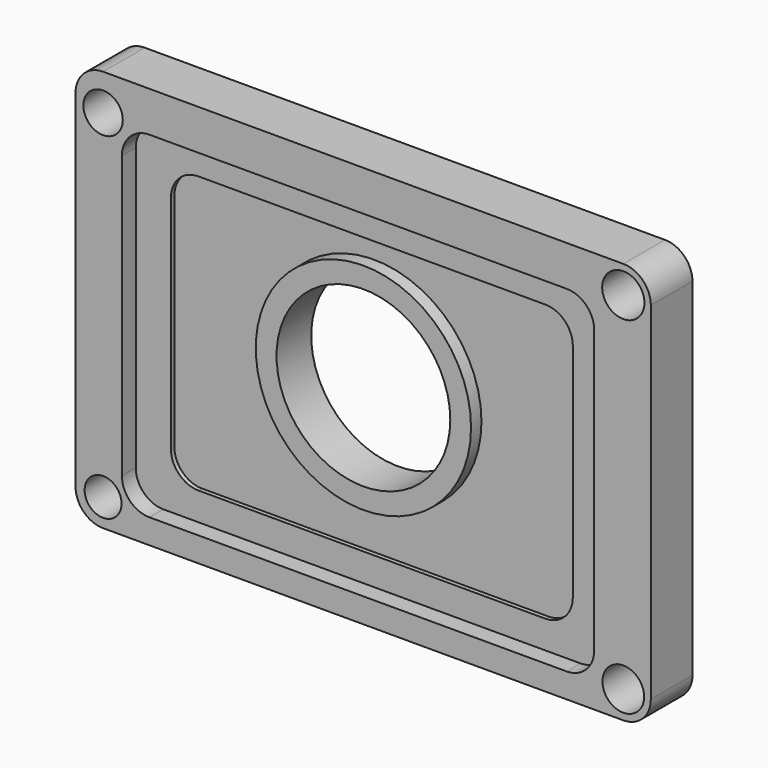
from build123d import *

# Parameters (mm, degrees)
F0_R     = 4.258407
F0_R_2   = 4.806756
F0_R_3   = 4.543111
F0_R_4   = 4.869038
F1_DEPTH = 12
F2_DEPTH = 8
F0_R_5   = 24.829414
F3_DEPTH = 7
F0_R_6   = 20.038363
F4_DEPTH = 10


with BuildPart() as f1:
    # F0 (on Front) → F1 (new body)
    with BuildSketch(Plane.XZ):
        with BuildLine():
            Line((61.549276, 45.996532), (-58.450724, 45.996532))
            ThreePointArc((-58.450724, 45.996532), (-62.940852, 44.13666), (-64.800724, 39.646532))
            Line((-64.800724, 39.646532), (-64.800724, -40.353468))
            ThreePointArc((-64.800724, -40.353468), (-62.940852, -44.843596), (-58.450724, -46.703468))
            Line((-58.450724, -46.703468), (61.549276, -46.703468))
            ThreePointArc((61.549276, -46.703468), (66.039404, -44.843596), (67.899276, -40.353468))
            Line((67.899276, -40.353468), (67.899276, 39.646532))
            ThreePointArc((67.899276, 39.646532), (66.039404, 44.13666), (61.549276, 45.996532))
        make_face()
        with Locations((-58.450724, -40.353468)):
            Circle(F0_R, mode=Mode.SUBTRACT)
        with BuildLine():
            ThreePointArc((-54.108147, 30.331052), (-52.248275, 34.82118), (-47.758147, 36.681052))
            Line((-47.758147, 36.681052), (48.495564, 36.681052))
            ThreePointArc((48.495564, 36.681052), (52.985692, 34.82118), (54.845564, 30.331052))
            Line((54.845564, 30.331052), (54.845564, -34.668948))
            ThreePointArc((54.845564, -34.668948), (52.985692, -39.159076), (48.495564, -41.018948))
            Line((48.495564, -41.018948), (-47.758147, -41.018948))
            ThreePointArc((-47.758147, -41.018948), (-52.248275, -39.159076), (-54.108147, -34.668948))
            Line((-54.108147, -34.668948), (-54.108147, 30.331052))
        make_face(mode=Mode.SUBTRACT)
        with Locations((61.549276, -40.353468)):
            Circle(F0_R_2, mode=Mode.SUBTRACT)
        with Locations((-58.450724, 37.651211)):
            Circle(F0_R_3, mode=Mode.SUBTRACT)
        with Locations((61.549276, 39.646532)):
            Circle(F0_R_4, mode=Mode.SUBTRACT)
    extrude(amount=F1_DEPTH)

    # F0 (on Front) → F2 (join)
    with BuildSketch(Plane.XZ):
        with BuildLine():
            Line((48.495564, 36.681052), (-47.758147, 36.681052))
            ThreePointArc((-47.758147, 36.681052), (-52.248275, 34.82118), (-54.108147, 30.331052))
            Line((-54.108147, 30.331052), (-54.108147, -34.668948))
            ThreePointArc((-54.108147, -34.668948), (-52.248275, -39.159076), (-47.758147, -41.018948))
            Line((-47.758147, -41.018948), (48.495564, -41.018948))
            ThreePointArc((48.495564, -41.018948), (52.985692, -39.159076), (54.845564, -34.668948))
            Line((54.845564, -34.668948), (54.845564, 30.331052))
            ThreePointArc((54.845564, 30.331052), (52.985692, 34.82118), (48.495564, 36.681052))
        make_face()
        with BuildLine():
            ThreePointArc((-45.996532, 22.870242), (-44.13666, 27.36037), (-39.646532, 29.220242))
            Line((-39.646532, 29.220242), (40.353468, 29.220242))
            ThreePointArc((40.353468, 29.220242), (44.843596, 27.36037), (46.703468, 22.870242))
            Line((46.703468, 22.870242), (46.703468, -28.216533))
            ThreePointArc((46.703468, -28.216533), (44.843596, -32.706661), (40.353468, -34.566533))
            Line((40.353468, -34.566533), (-39.646532, -34.566533))
            ThreePointArc((-39.646532, -34.566533), (-44.13666, -32.706661), (-45.996532, -28.216533))
            Line((-45.996532, -28.216533), (-45.996532, 22.870242))
        make_face(mode=Mode.SUBTRACT)
    extrude(amount=F2_DEPTH)

    # F0 (on Front) → F3 (join)
    with BuildSketch(Plane.XZ):
        with BuildLine():
            Line((40.353468, 29.220242), (-39.646532, 29.220242))
            ThreePointArc((-39.646532, 29.220242), (-44.13666, 27.36037), (-45.996532, 22.870242))
            Line((-45.996532, 22.870242), (-45.996532, -28.216533))
            ThreePointArc((-45.996532, -28.216533), (-44.13666, -32.706661), (-39.646532, -34.566533))
            Line((-39.646532, -34.566533), (40.353468, -34.566533))
            ThreePointArc((40.353468, -34.566533), (44.843596, -32.706661), (46.703468, -28.216533))
            Line((46.703468, -28.216533), (46.703468, 22.870242))
            ThreePointArc((46.703468, 22.870242), (44.843596, 27.36037), (40.353468, 29.220242))
        make_face()
        Circle(F0_R_5, mode=Mode.SUBTRACT)
    extrude(amount=F3_DEPTH)

    # F0 (on Front) → F4 (join)
    with BuildSketch(Plane.XZ):
        Circle(F0_R_5)
        Circle(F0_R_6, mode=Mode.SUBTRACT)
    extrude(amount=F4_DEPTH)


solid = f1.part
